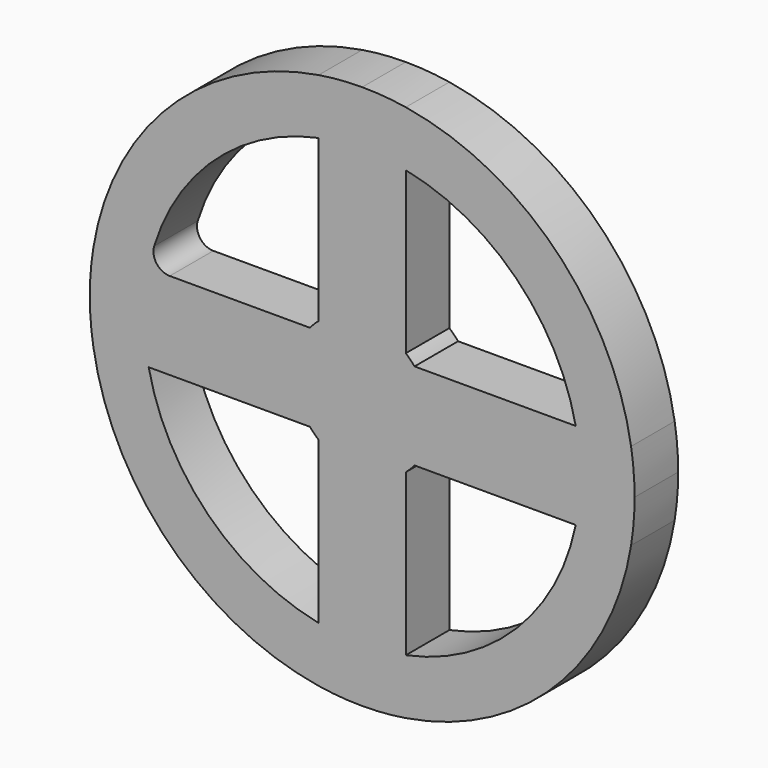
from build123d import *

# Parameters (mm, degrees)
F1_DEPTH = 10
F3_DEPTH = 10
F4_R     = 5.005299482
F5_DEPTH = 10
F6_R     = 3


with BuildPart() as f1:
    # F0 (on Front) → F1 (new body)
    with BuildSketch(Plane.XZ):
        with BuildLine():
            Line((-8, 39.1918358845), (-8, 49.355850717))
            ThreePointArc((-8, 49.355850717), (-35.3553390593, 35.3553390593), (-49.355850717, 8))
            Line((-49.355850717, 8), (-39.1918358845, 8))
            ThreePointArc((-39.1918358845, 8), (-28.2842712475, 28.2842712475), (-8, 39.1918358845))
        make_face()
        with BuildLine():
            Line((8, -8), (8, 0))
            Line((8, 0), (5, 0))
            ThreePointArc((5, 0), (3.5355339059, -3.5355339059), (0, -5))
            Line((0, -5), (0, -8))
            Line((0, -8), (8, -8))
        make_face()
        with BuildLine():
            ThreePointArc((8, -9.6046863561), (8.8388347648, -8.8388347648), (9.6046863561, -8))
            Line((9.6046863561, -8), (8, -8))
            Line((8, -8), (8, -9.6046863561))
        make_face()
        with BuildLine():
            ThreePointArc((9.6046863561, -8), (11.7539052968, -4.2539052968), (12.5, 0))
            Line((12.5, 0), (8, 0))
            Line((8, 0), (8, -8))
            Line((8, -8), (9.6046863561, -8))
        make_face()
        with BuildLine():
            ThreePointArc((-8, -9.6046863561), (-4.2539052968, -11.7539052968), (0, -12.5))
            Line((0, -12.5), (0, -8))
            Line((0, -8), (-8, -8))
            Line((-8, -8), (-8, -9.6046863561))
        make_face()
        with BuildLine():
            Line((5, 0), (8, 0))
            Line((8, 0), (8, 8))
            Line((8, 8), (0, 8))
            Line((0, 8), (0, 5))
            ThreePointArc((0, 5), (3.5355339059, 3.5355339059), (5, 0))
        make_face()
        with BuildLine():
            Line((8, 0), (12.5, 0))
            ThreePointArc((12.5, 0), (11.7539052968, 4.2539052968), (9.6046863561, 8))
            Line((9.6046863561, 8), (8, 8))
            Line((8, 8), (8, 0))
        make_face()
        with BuildLine():
            Line((12.5, 0), (40, 0))
            ThreePointArc((40, 0), (39.7974461202, 4.0203584802), (39.1918358845, 8))
            Line((39.1918358845, 8), (9.6046863561, 8))
            ThreePointArc((9.6046863561, 8), (11.7539052968, 4.2539052968), (12.5, 0))
        make_face()
        with BuildLine():
            ThreePointArc((0, -12.5), (4.2539052968, -11.7539052968), (8, -9.6046863561))
            Line((8, -9.6046863561), (8, -8))
            Line((8, -8), (0, -8))
            Line((0, -8), (0, -12.5))
        make_face()
        with BuildLine():
            ThreePointArc((-9.6046863561, -8), (-8.8388347648, -8.8388347648), (-8, -9.6046863561))
            Line((-8, -9.6046863561), (-8, -8))
            Line((-8, -8), (-9.6046863561, -8))
        make_face()
        with BuildLine():
            Line((-8, -8), (0, -8))
            Line((0, -8), (0, -5))
            ThreePointArc((0, -5), (-3.5355339059, -3.5355339059), (-5, 0))
            Line((-5, 0), (-8, 0))
            Line((-8, 0), (-8, -8))
        make_face()
        with BuildLine():
            Line((-9.6046863561, -8), (-8, -8))
            Line((-8, -8), (-8, 0))
            Line((-8, 0), (-12.5, 0))
            ThreePointArc((-12.5, 0), (-11.7539052968, -4.2539052968), (-9.6046863561, -8))
        make_face()
        with BuildLine():
            Line((0, 5), (0, 8))
            Line((0, 8), (-8, 8))
            Line((-8, 8), (-8, 0))
            Line((-8, 0), (-5, 0))
            ThreePointArc((-5, 0), (-3.5355339059, 3.5355339059), (0, 5))
        make_face()
        with BuildLine():
            Line((-8, 0), (-8, 8))
            Line((-8, 8), (-9.6046863561, 8))
            ThreePointArc((-9.6046863561, 8), (-11.7539052968, 4.2539052968), (-12.5, 0))
            Line((-12.5, 0), (-8, 0))
        make_face()
        with BuildLine():
            Line((-8, 8), (-8, 9.6046863561))
            ThreePointArc((-8, 9.6046863561), (-8.8388347648, 8.8388347648), (-9.6046863561, 8))
            Line((-9.6046863561, 8), (-8, 8))
        make_face()
        with BuildLine():
            Line((0, 8), (0, 12.5))
            ThreePointArc((0, 12.5), (-4.2539052968, 11.7539052968), (-8, 9.6046863561))
            Line((-8, 9.6046863561), (-8, 8))
            Line((-8, 8), (0, 8))
        make_face()
        with BuildLine():
            Line((8, 8), (8, 9.6046863561))
            ThreePointArc((8, 9.6046863561), (4.2539052968, 11.7539052968), (0, 12.5))
            Line((0, 12.5), (0, 8))
            Line((0, 8), (8, 8))
        make_face()
        with BuildLine():
            Line((8, 8), (9.6046863561, 8))
            ThreePointArc((9.6046863561, 8), (8.8388347648, 8.8388347648), (8, 9.6046863561))
            Line((8, 9.6046863561), (8, 8))
        make_face()
        with BuildLine():
            ThreePointArc((39.1918358845, -8), (39.7974461202, -4.0203584802), (40, 0))
            Line((40, 0), (12.5, 0))
            ThreePointArc((12.5, 0), (11.7539052968, -4.2539052968), (9.6046863561, -8))
            Line((9.6046863561, -8), (39.1918358845, -8))
        make_face()
        with BuildLine():
            Line((-9.6046863561, 8), (-39.1918358845, 8))
            ThreePointArc((-39.1918358845, 8), (-39.7974461202, 4.0203584802), (-40, 0))
            Line((-40, 0), (-12.5, 0))
            ThreePointArc((-12.5, 0), (-11.7539052968, 4.2539052968), (-9.6046863561, 8))
        make_face()
        with BuildLine():
            ThreePointArc((-40, 0), (-39.7974461202, -4.0203584802), (-39.1918358845, -8))
            Line((-39.1918358845, -8), (-9.6046863561, -8))
            ThreePointArc((-9.6046863561, -8), (-11.7539052968, -4.2539052968), (-12.5, 0))
            Line((-12.5, 0), (-40, 0))
        make_face()
        with BuildLine():
            Line((0, 12.5), (0, 40))
            ThreePointArc((0, 40), (-4.0203584802, 39.7974461202), (-8, 39.1918358845))
            Line((-8, 39.1918358845), (-8, 9.6046863561))
            ThreePointArc((-8, 9.6046863561), (-4.2539052968, 11.7539052968), (0, 12.5))
        make_face()
        with BuildLine():
            Line((8, 9.6046863561), (8, 39.1918358845))
            ThreePointArc((8, 39.1918358845), (4.0203584802, 39.7974461202), (0, 40))
            Line((0, 40), (0, 12.5))
            ThreePointArc((0, 12.5), (4.2539052968, 11.7539052968), (8, 9.6046863561))
        make_face()
        with BuildLine():
            ThreePointArc((-8, -39.1918358845), (-4.0203584802, -39.7974461202), (0, -40))
            Line((0, -40), (0, -12.5))
            ThreePointArc((0, -12.5), (-4.2539052968, -11.7539052968), (-8, -9.6046863561))
            Line((-8, -9.6046863561), (-8, -39.1918358845))
        make_face()
        with BuildLine():
            ThreePointArc((0, -40), (4.0203584802, -39.7974461202), (8, -39.1918358845))
            Line((8, -39.1918358845), (8, -9.6046863561))
            ThreePointArc((8, -9.6046863561), (4.2539052968, -11.7539052968), (0, -12.5))
            Line((0, -12.5), (0, -40))
        make_face()
        with BuildLine():
            ThreePointArc((-49.355850717, -8), (-35.3553390593, -35.3553390593), (-8, -49.355850717))
            Line((-8, -49.355850717), (-8, -39.1918358845))
            ThreePointArc((-8, -39.1918358845), (-28.2842712475, -28.2842712475), (-39.1918358845, -8))
            Line((-39.1918358845, -8), (-49.355850717, -8))
        make_face()
        with BuildLine():
            Line((-39.1918358845, 8), (-49.355850717, 8))
            ThreePointArc((-49.355850717, 8), (-49.8387025105, 4.0129455609), (-50, 0))
            Line((-50, 0), (-40, 0))
            ThreePointArc((-40, 0), (-39.7974461202, 4.0203584802), (-39.1918358845, 8))
        make_face()
        with BuildLine():
            ThreePointArc((-50, 0), (-49.8387025105, -4.0129455609), (-49.355850717, -8))
            Line((-49.355850717, -8), (-39.1918358845, -8))
            ThreePointArc((-39.1918358845, -8), (-39.7974461202, -4.0203584802), (-40, 0))
            Line((-40, 0), (-50, 0))
        make_face()
        with BuildLine():
            Line((0, 40), (0, 50))
            ThreePointArc((0, 50), (-4.0129455609, 49.8387025105), (-8, 49.355850717))
            Line((-8, 49.355850717), (-8, 39.1918358845))
            ThreePointArc((-8, 39.1918358845), (-4.0203584802, 39.7974461202), (0, 40))
        make_face()
        with BuildLine():
            Line((8, 39.1918358845), (8, 49.355850717))
            ThreePointArc((8, 49.355850717), (4.0129455609, 49.8387025105), (0, 50))
            Line((0, 50), (0, 40))
            ThreePointArc((0, 40), (4.0203584802, 39.7974461202), (8, 39.1918358845))
        make_face()
        with BuildLine():
            Line((39.1918358845, 8), (49.355850717, 8))
            ThreePointArc((49.355850717, 8), (35.3553390593, 35.3553390593), (8, 49.355850717))
            Line((8, 49.355850717), (8, 39.1918358845))
            ThreePointArc((8, 39.1918358845), (28.2842712475, 28.2842712475), (39.1918358845, 8))
        make_face()
        with BuildLine():
            Line((40, 0), (50, 0))
            ThreePointArc((50, 0), (49.8387025105, 4.0129455609), (49.355850717, 8))
            Line((49.355850717, 8), (39.1918358845, 8))
            ThreePointArc((39.1918358845, 8), (39.7974461202, 4.0203584802), (40, 0))
        make_face()
        with BuildLine():
            ThreePointArc((49.355850717, -8), (49.8387025105, -4.0129455609), (50, 0))
            Line((50, 0), (40, 0))
            ThreePointArc((40, 0), (39.7974461202, -4.0203584802), (39.1918358845, -8))
            Line((39.1918358845, -8), (49.355850717, -8))
        make_face()
        with BuildLine():
            ThreePointArc((8, -49.355850717), (35.3553390593, -35.3553390593), (49.355850717, -8))
            Line((49.355850717, -8), (39.1918358845, -8))
            ThreePointArc((39.1918358845, -8), (28.2842712475, -28.2842712475), (8, -39.1918358845))
            Line((8, -39.1918358845), (8, -49.355850717))
        make_face()
        with BuildLine():
            ThreePointArc((-8, -49.355850717), (-4.0129455609, -49.8387025105), (0, -50))
            Line((0, -50), (0, -40))
            ThreePointArc((0, -40), (-4.0203584802, -39.7974461202), (-8, -39.1918358845))
            Line((-8, -39.1918358845), (-8, -49.355850717))
        make_face()
        with BuildLine():
            ThreePointArc((0, -50), (4.0129455609, -49.8387025105), (8, -49.355850717))
            Line((8, -49.355850717), (8, -39.1918358845))
            ThreePointArc((8, -39.1918358845), (4.0203584802, -39.7974461202), (0, -40))
            Line((0, -40), (0, -50))
        make_face()
    extrude(amount=F1_DEPTH)

    # F2 (on face) → F3 (join)
    with BuildSketch(Plane.XZ.offset(10)):
        with BuildLine():
            Line((7.6082753949, 1.9267198172), (4.613865055, 1.9267198172))
            ThreePointArc((4.613865055, 1.9267198172), (4.9025159498, 0.9825158332), (5, 0))
            ThreePointArc((5, 0), (4.9024071863, -0.9830583809), (4.6134384879, -1.9277409883))
            Line((4.6134384879, -1.9277409883), (7.6082753949, -1.9277409883))
            Line((7.6082753949, -1.9277409883), (7.6082753949, 0))
            Line((7.6082753949, 0), (7.6082753949, 1.9267198172))
        make_face()
        with BuildLine():
            ThreePointArc((5, 0), (4.9025159498, 0.9825158332), (4.613865055, 1.9267198172))
            ThreePointArc((4.613865055, 1.9267198172), (-4.9999999694, 0.0005533421), (4.6134384879, -1.9277409883))
            ThreePointArc((4.6134384879, -1.9277409883), (4.9024071863, -0.9830583809), (5, 0))
        make_face()
    extrude(amount=-F3_DEPTH)

    # F4 (on face) → F5 (join)
    with BuildSketch(Plane.XZ.offset(10)):
        Circle(F4_R)
    extrude(amount=-F5_DEPTH)

    # F6
    f6_edges = [f1.edges().sort_by_distance(p)[0] for p in [
        (-39.191836, -5, 8),
    ]]
    fillet(f6_edges, radius=F6_R)


solid = f1.part
